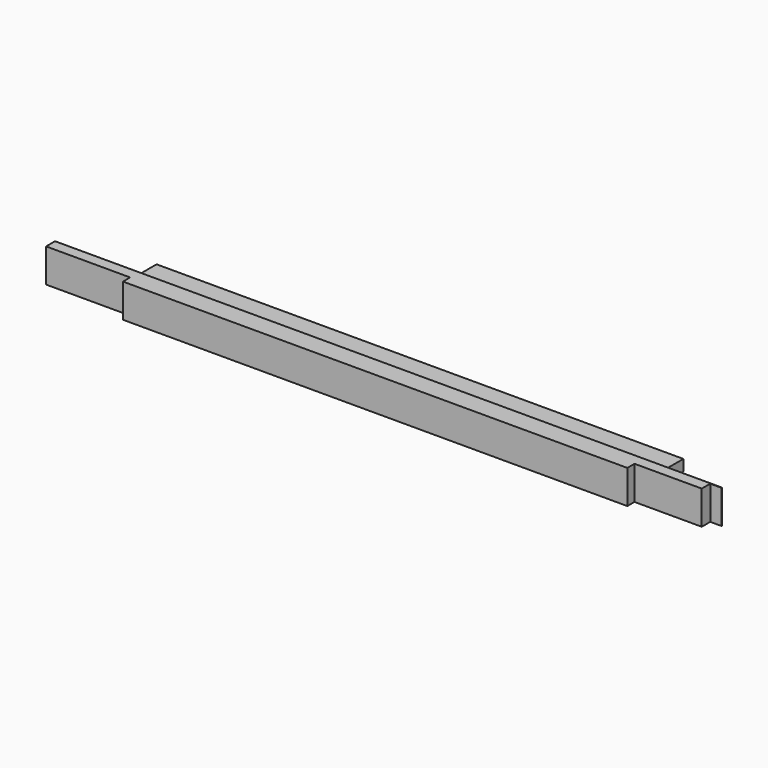
from build123d import *

# Parameters (mm, degrees)
SKETCH033_W     = 50
SKETCH033_H     = 30
PAD003_DEPTH    = 610
SKETCH034_W     = 70
SKETCH034_H     = 8
SKETCH034_W_2   = 60
SKETCH034_H_2   = 32
POCKET029_DEPTH = 30.001
SKETCH036_W     = 80
SKETCH036_H     = 32
SKETCH036_W_2   = 90
SKETCH036_H_2   = 8
POCKET031_DEPTH = 30.001
SKETCH037_W     = 32
SKETCH037_H     = 10
POCKET032_DEPTH = 1835.562096
SKETCH038_W     = 15
SKETCH038_H     = 50
POCKET033_DEPTH = 30.001
SKETCH039_W     = 10
SKETCH039_H     = 32.5
POCKET034_DEPTH = 30.001


with BuildPart() as part:
    # Sketch033 (on DatumPlane) → Pad003 (new body)
    with BuildSketch(Plane.YZ.offset(305)):
        Rectangle(SKETCH033_W, SKETCH033_H)
    extrude(amount=-PAD003_DEPTH)

    # Sketch034 (on DatumPlane) → Pocket029 (cut, through all)
    with BuildSketch(Plane.XY.offset(15)):
        with Locations((270, -21)):
            Rectangle(SKETCH034_W, SKETCH034_H)
        with Locations((275, 9)):
            Rectangle(SKETCH034_W_2, SKETCH034_H_2)
    extrude(amount=-POCKET029_DEPTH, mode=Mode.SUBTRACT)

    # Sketch036 (on DatumPlane) → Pocket031 (cut, through all)
    with BuildSketch(Plane.XY.offset(15)):
        with Locations((-265, 9)):
            Rectangle(SKETCH036_W, SKETCH036_H)
        with Locations((-260, -21)):
            Rectangle(SKETCH036_W_2, SKETCH036_H_2)
    extrude(amount=-POCKET031_DEPTH, mode=Mode.SUBTRACT)

    # Sketch037 (on DatumPlane) → Pocket032 (cut, through all)
    with BuildSketch(Plane.YZ.offset(305)):
        with Locations((9, 10)):
            Rectangle(SKETCH037_W, SKETCH037_H)
    pocket032 = extrude(amount=-POCKET032_DEPTH, mode=Mode.SUBTRACT)

    # Mirrored004: Pocket032 across Sketch037 H_Axis
    add(pocket032.mirror(Plane(origin=(305, 0, 0), x_dir=(1, 0, 0), z_dir=(0, 0, 1))), mode=Mode.SUBTRACT)

    # Sketch038 (on DatumPlane) → Pocket033 (cut, through all)
    with BuildSketch(Plane.XY.offset(15)):
        with Locations((-297.5, 0)):
            Rectangle(SKETCH038_W, SKETCH038_H)
    extrude(amount=-POCKET033_DEPTH, mode=Mode.SUBTRACT)

    # Sketch039 (on DatumPlane) → Pocket034 (cut, through all)
    with BuildSketch(Plane.XY.offset(15)):
        with Locations((300, -23.75)):
            Rectangle(SKETCH039_W, SKETCH039_H)
    extrude(amount=-POCKET034_DEPTH, mode=Mode.SUBTRACT)


solid = part.part
